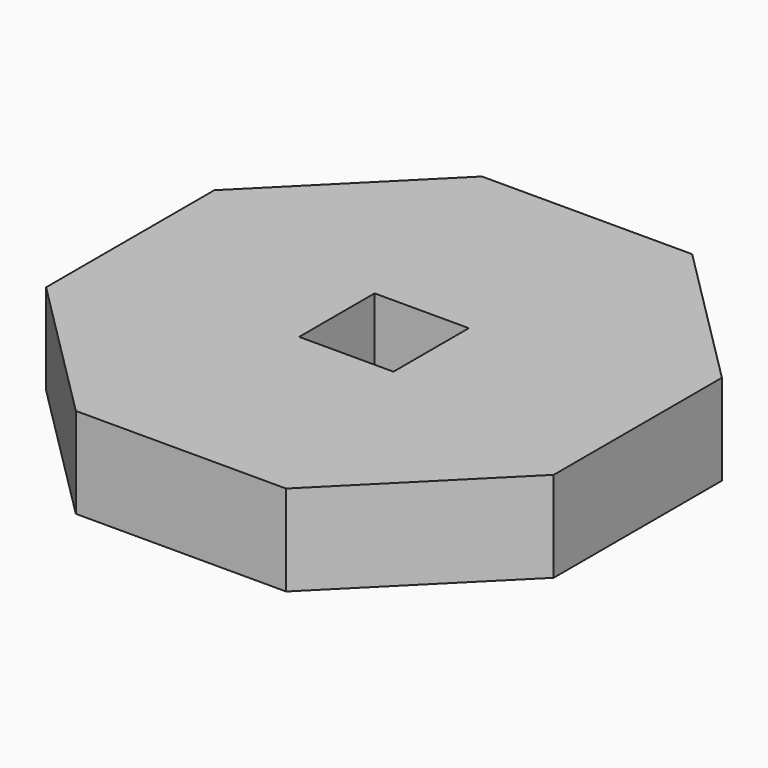
from build123d import *

# Parameters (mm, degrees)
F1_DEPTH = 5
F2_W     = 5.2
F2_H     = 5.2
F3_DEPTH = 25


with BuildPart() as f1:
    # F0 (on Top) → F1 (new body)
    with BuildSketch(Plane.XY):
        Polygon((-5.79899, -14), (5.79899, -14), (14, -5.79899), (14, 5.79899), (5.79899, 14), (-5.79899, 14), (-14, 5.79899), (-14, -5.79899), align=None)
    extrude(amount=F1_DEPTH)

    # F2 (on face) → F3 (cut)
    with BuildSketch(Plane.XY.offset(5)):
        Rectangle(F2_W, F2_H)
    extrude(amount=-F3_DEPTH, mode=Mode.SUBTRACT)


solid = f1.part
